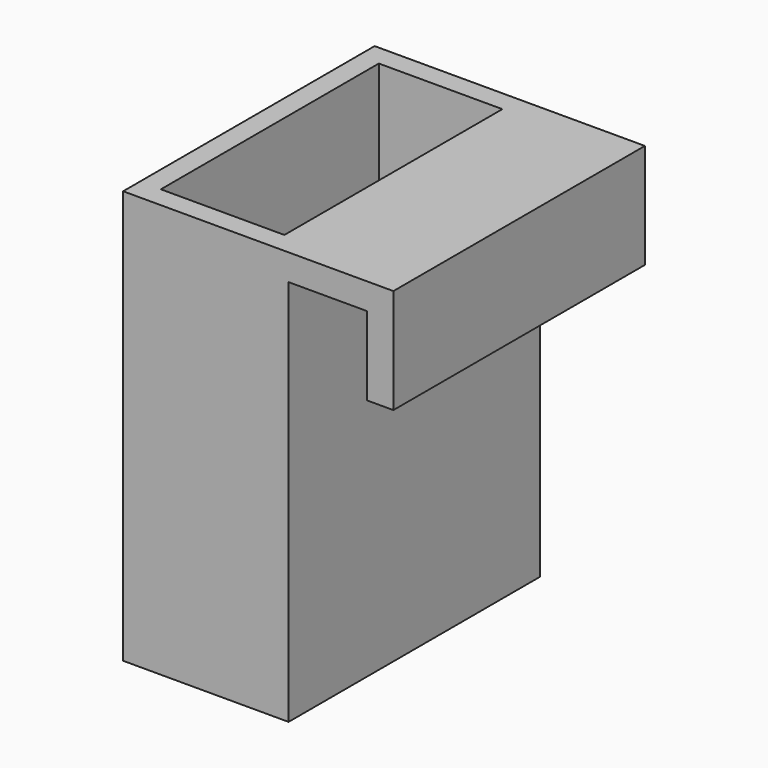
from build123d import *

# Parameters (mm, degrees)
F0_W     = 31.5761379898
F0_H     = 78.8946151733
F1_DEPTH = 60
F2_W     = 23.5761379898
F2_H     = 52
F3_DEPTH = 72
F5_DEPTH = 60


with BuildPart() as f1:
    # F0 (on Front) → F1 (new body)
    with BuildSketch(Plane.XZ):
        with Locations((15.7880689949, 39.4473075867)):
            Rectangle(F0_W, F0_H)
    extrude(amount=F1_DEPTH)

    # F2 (on face) → F3 (cut)
    with BuildSketch(Plane.XY.offset(78.8946151733)):
        with Locations((15.7880689949, -30)):
            Rectangle(F2_W, F2_H)
    extrude(amount=-F3_DEPTH, mode=Mode.SUBTRACT)

    # F4 (on face) → F5 (join)
    with BuildSketch(Plane.XZ.offset(60)):
        Polygon((51.5761379898, 78.8946151733), (31.5761379898, 78.8946151733), (31.5761379898, 73.8946151733), (46.5761379898, 73.8946151733), (46.5761379898, 58.8946151733), (51.5761379898, 58.8946151733), align=None)
    extrude(amount=-F5_DEPTH)


solid = f1.part
